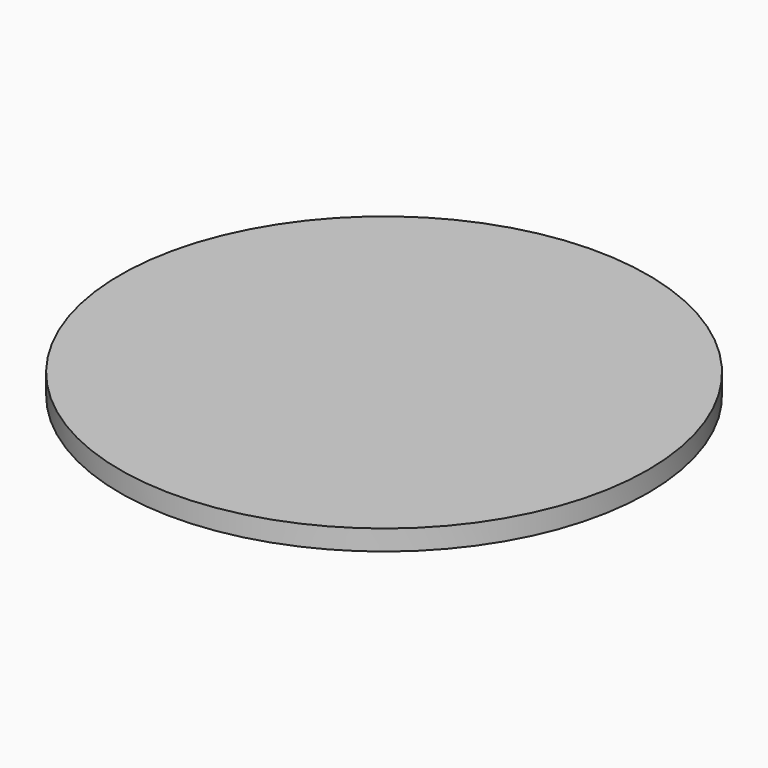
from build123d import *

# Parameters (mm, degrees)
F2_R     = 90
F3_DEPTH = 34
F4_START = 19
F2_R_2   = 195
F4_DEPTH = 15


with BuildPart() as f3:
    # F2 (on Top) → F3 (new body)
    with BuildSketch(Plane.XY):
        Circle(F2_R)
    extrude(amount=F3_DEPTH)

    # F2 (on Top) → F4 (join)
    with BuildSketch(Plane.XY.offset(F4_START)):
        Circle(F2_R_2)
        Circle(F2_R, mode=Mode.SUBTRACT)
    extrude(amount=F4_DEPTH)


solid = f3.part
